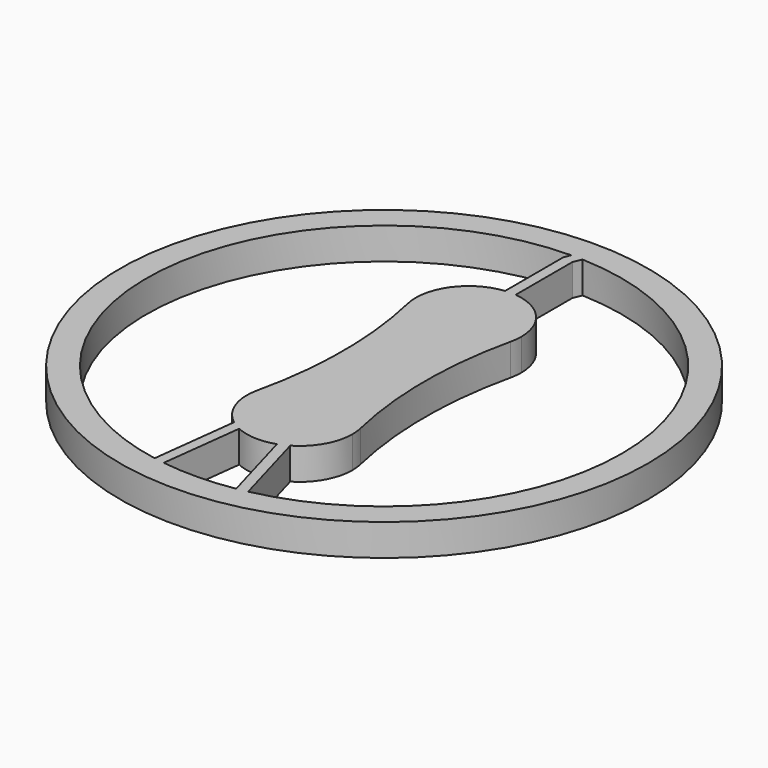
from build123d import *

# Parameters (mm, degrees)
F0_R     = 25
F1_DEPTH = 3
F3_DEPTH = 3


with BuildPart() as f1:
    # F0 (on Top) → F1 (new body)
    with BuildSketch(Plane.XY):
        Circle(F0_R)
    extrude(amount=F1_DEPTH)

    # F2 (on face) → F3 (cut)
    with BuildSketch(Plane.XY.offset(3)):
        with BuildLine():
            ThreePointArc((4.725819, -21.998105), (17.501156, -14.140705), (22.5, 0))
            ThreePointArc((22.5, 0), (16.191719, 15.623004), (0.804156, 22.485625))
            Line((0.804156, 22.485625), (0.478202, 21.692062))
            Line((0.478202, 21.692062), (0.478202, 14.97708))
            ThreePointArc((0.478202, 14.97708), (3.700744, 13.362216), (5, 10))
            ThreePointArc((5, 10), (4.968647, 9.440939), (4.87498, 8.888889))
            ThreePointArc((4.87498, 8.888889), (3.874822, 0), (4.87498, -8.888889))
            ThreePointArc((4.87498, -8.888889), (4.968647, -9.440939), (5, -10))
            ThreePointArc((5, -10), (4.34454, -12.474869), (2.55001, -14.300866))
            Line((2.55001, -14.300866), (4.725819, -21.998105))
        make_face()
        with BuildLine():
            ThreePointArc((-3.034163, -22.29448), (0.357, -22.497168), (3.740025, -22.186983))
            Line((3.740025, -22.186983), (1.63113, -14.726459))
            ThreePointArc((1.63113, -14.726459), (-0.25017, -14.993738), (-2.095339, -14.539775))
            Line((-2.095339, -14.539775), (-3.034163, -22.29448))
        make_face()
        with BuildLine():
            Line((-0.521798, 21.889435), (-0.271684, 22.49836))
            ThreePointArc((-0.271684, 22.49836), (-21.999826, 4.717802), (-9.472973, -20.408645))
            ThreePointArc((-9.472973, -20.408645), (-6.802863, -21.446936), (-4.022462, -22.13752))
            Line((-4.022462, -22.13752), (-3.034163, -13.974148))
            ThreePointArc((-3.034163, -13.974148), (-4.701447, -11.701881), (-4.87498, -8.888889))
            ThreePointArc((-4.87498, -8.888889), (-3.874822, 0), (-4.87498, 8.888889))
            ThreePointArc((-4.87498, 8.888889), (-4.066262, 12.909555), (-0.521798, 14.972698))
            Line((-0.521798, 14.972698), (-0.521798, 21.889435))
        make_face()
    extrude(amount=-F3_DEPTH, mode=Mode.SUBTRACT)


solid = f1.part
